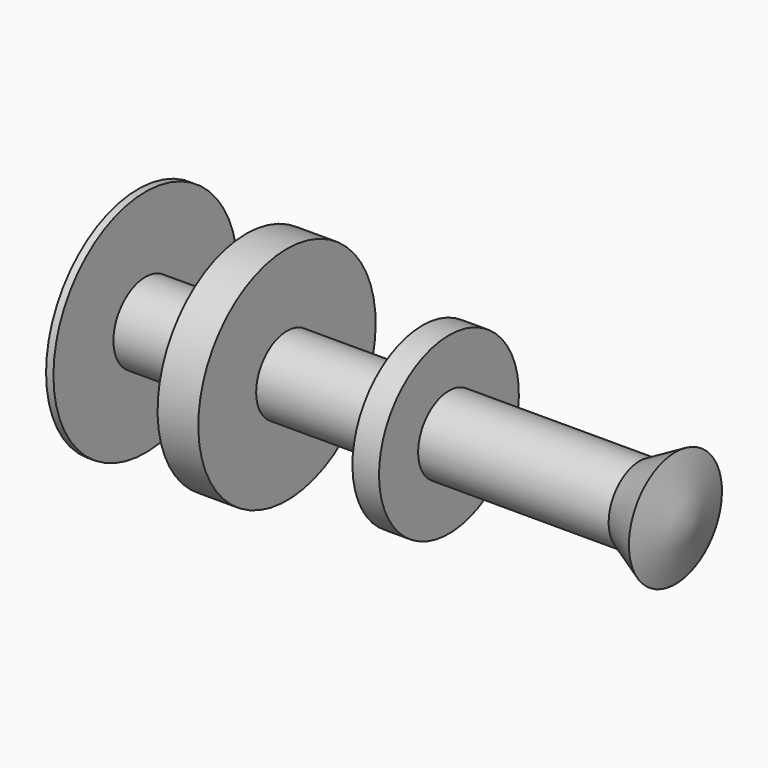
from build123d import *

# Parameters (mm, degrees)
F3_START = 5.08
F2_R     = 137.9304281911
F3_DEPTH = 342.9
F4_R     = 396.8058928466
F4_R_2   = 137.9304281911
F5_DEPTH = 25.4


with BuildPart() as f1:
    # F0 (on Front) → F1 (revolve)
    with BuildSketch(Plane.XZ):
        Polygon((-607.9770922661, 382.5466036797), (-607.9770922661, 0), (925.1065850258, 0), (873.4953469969, 200.6744790645), (749.2942214012, 132.8930705786), (91.7560905218, 132.8930705786), (91.7560905218, 301.6729056835), (0, 301.6729056835), (0, 132.8930705786), (-467.3272073269, 132.8930705786), (-467.3272073269, 382.5466036797), align=None)
    revolve(axis=Axis((158.5647463799, 0, 0), (1, 0, 0)))


with BuildPart() as f3:
    # F2 (on face) → F3 (new body)
    with BuildSketch(Plane(origin=(-607.9770922661, 0, 0), x_dir=(0, -1, 0), z_dir=(-1, 0, 0)).offset(F3_START)):
        Circle(F2_R)
    extrude(amount=F3_DEPTH)


with BuildPart() as f5:
    # F4 (on face) → F5 (new body)
    with BuildSketch(Plane(origin=(-955.9570922661, 0, 0), x_dir=(0, -1, 0), z_dir=(-1, 0, 0))):
        Circle(F4_R)
        Circle(F4_R_2, mode=Mode.SUBTRACT)
    extrude(amount=F5_DEPTH)


solid = Compound([f1.part, f3.part, f5.part])
